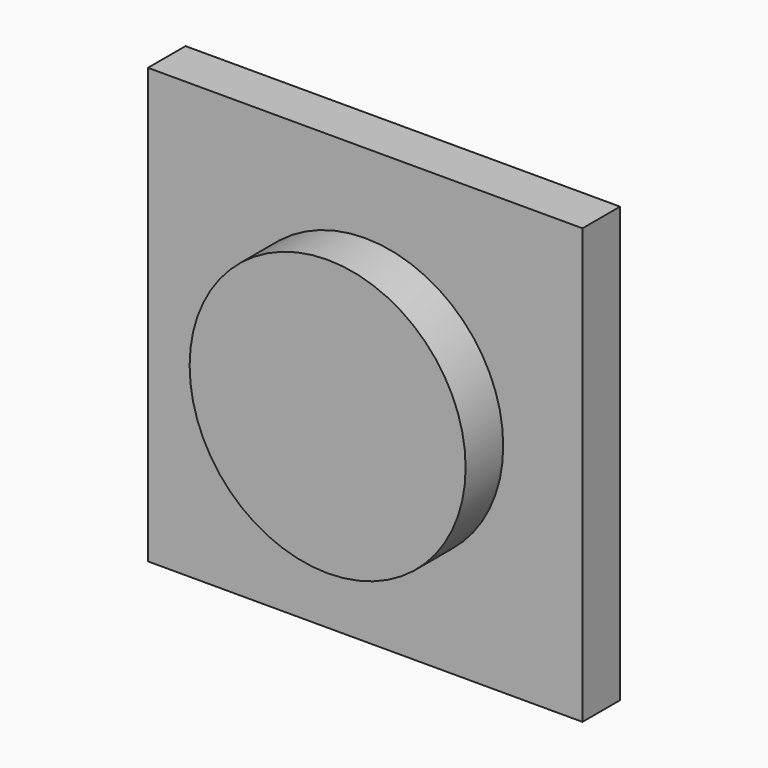
from build123d import *

# Parameters (mm, degrees)
F0_W     = 37
F0_H     = 37
F1_DEPTH = 4
F2_R     = 11.75
F3_DEPTH = 8


with BuildPart() as f1:
    # F0 (on Front) → F1 (new body)
    with BuildSketch(Plane.XZ):
        Rectangle(F0_W, F0_H)
    extrude(amount=F1_DEPTH)

    # F2 (on Front) → F3 (join)
    with BuildSketch(Plane.XZ):
        Circle(F2_R)
    extrude(amount=F3_DEPTH)


solid = f1.part
